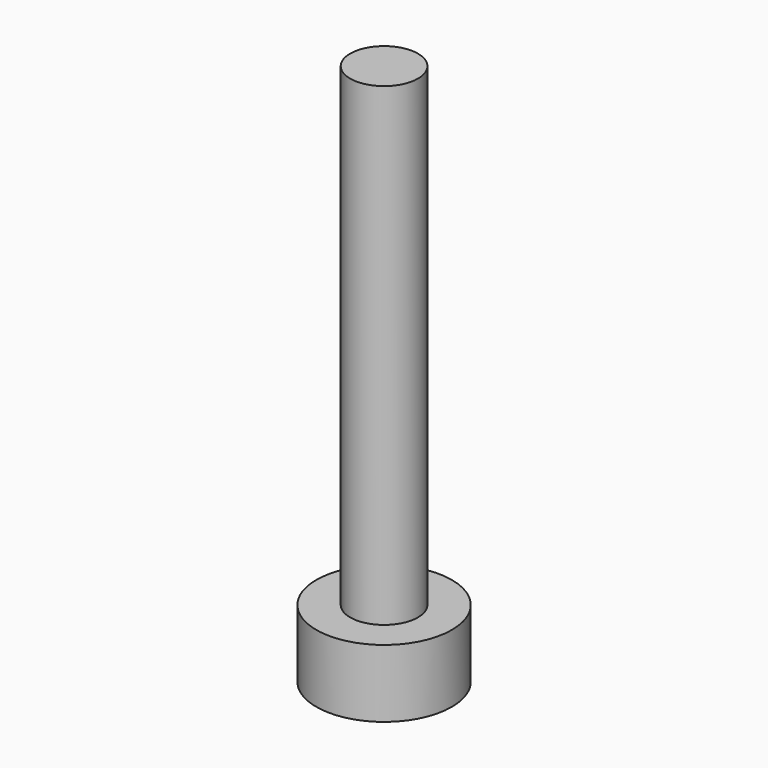
from build123d import *

# Parameters (mm, degrees)
F0_R     = 1.5875
F1_DEPTH = 25.4
F2_R     = 3.175
F2_R_2   = 1.5875
F3_DEPTH = 3.175
F4_DEPTH = 3.175


with BuildPart() as f1:
    # F0 (on Top) → F1 (new body)
    with BuildSketch(Plane.XY):
        Circle(F0_R)
    extrude(amount=F1_DEPTH)

    # F2 (on Top) → F3 (join)
    with BuildSketch(Plane.XY):
        Circle(F2_R)
        Circle(F2_R_2, mode=Mode.SUBTRACT)
    extrude(amount=F3_DEPTH)

    # F0 (on Top) → F4 (cut)
    with BuildSketch(Plane.XY):
        Circle(F0_R)
    extrude(amount=F4_DEPTH, mode=Mode.SUBTRACT)


solid = f1.part
